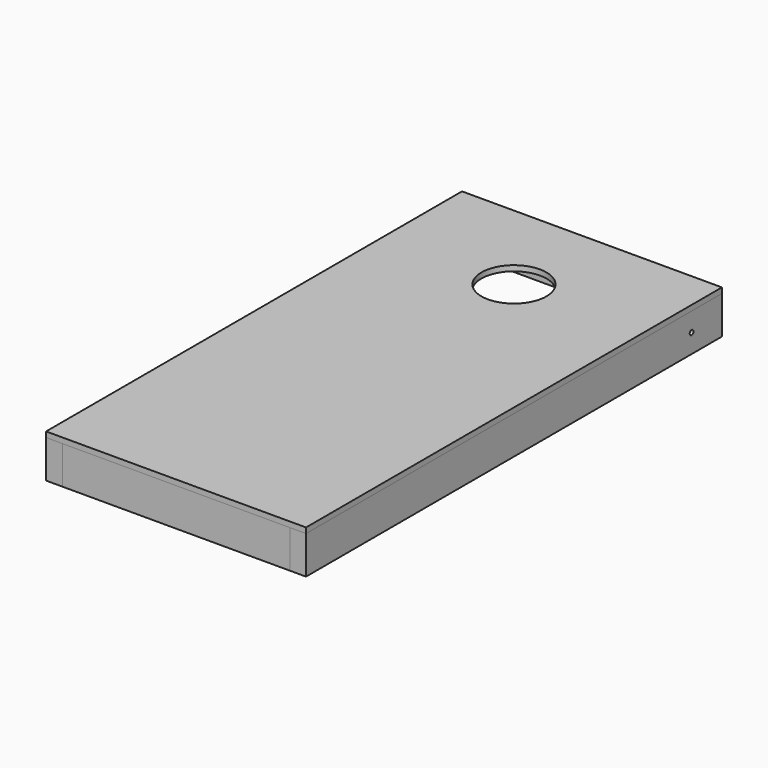
from build123d import *

# Parameters (mm, degrees)
F0_W      = 609.6
F0_H      = 1219.2
F0_R      = 76.2
F1_DEPTH  = 12.7
F3_DEPTH  = 88.9
F2_W      = 533.4
F2_H      = 38.1
F4_DEPTH  = 88.9
F6_D      = 11.1125
F8_D      = 11.1125
F10_D     = 6.35
F10_DEPTH = 50.8
F10_TIP   = 1.9077324654
F12_D     = 6.35
F12_DEPTH = 50.8
F12_TIP   = 1.9077324654


with BuildPart() as f1:
    # F0 (on Top) → F1 (new body)
    with BuildSketch(Plane.XY):
        with Locations((304.8, 609.6)):
            Rectangle(F0_W, F0_H)
        with Locations((304.8, 990.6)):
            Circle(F0_R, mode=Mode.SUBTRACT)
    extrude(amount=-F1_DEPTH)


with BuildPart() as f3:
    # F2 (on face) → F3 (new body)
    with BuildSketch(Plane(origin=(0, 0, -12.7), x_dir=(1, 0, 0), z_dir=(0, 0, -1))):
        Polygon((0, 0), (0, -1219.2), (38.1, -1219.2), (38.1, -1181.1), (38.1, -38.1), (38.1, 0), align=None)
    extrude(amount=F3_DEPTH)

    # F8 (through all)
    with Locations(Plane(origin=(0, 0, 0), x_dir=(0, -1, 0), z_dir=(-1, 0, 0))):
        with Locations((-1130.3, -57.15)):
            Hole(F8_D / 2)

    # F10
    with Locations(Plane(origin=(0, 0, -101.6), x_dir=(1, 0, 0), z_dir=(0, 0, -1))):
        with Locations((19.05, -101.6)):
            Hole(F10_D / 2, depth=F10_DEPTH)
            with Locations((0, 0, -(F10_DEPTH + F10_TIP / 2))):  # 118° drill point
                Cone(0, F10_D / 2, F10_TIP, mode=Mode.SUBTRACT)


with BuildPart() as f3b:
    # F2 (on face) → F3, piece 2 (new body)
    with BuildSketch(Plane(origin=(0, 0, -12.7), x_dir=(1, 0, 0), z_dir=(0, 0, -1))):
        Polygon((571.5, -1181.1), (571.5, -1219.2), (609.6, -1219.2), (609.6, 0), (571.5, 0), (571.5, -38.1), align=None)
    extrude(amount=F3_DEPTH)

    # F6 (through all)
    with Locations(Plane.YZ.offset(609.6)):
        with Locations((1130.3, -57.15)):
            Hole(F6_D / 2)

    # F12
    with Locations(Plane(origin=(0, 0, -101.6), x_dir=(1, 0, 0), z_dir=(0, 0, -1))):
        with Locations((590.55, -101.6)):
            Hole(F12_D / 2, depth=F12_DEPTH)
            with Locations((0, 0, -(F12_DEPTH + F12_TIP / 2))):  # 118° drill point
                Cone(0, F12_D / 2, F12_TIP, mode=Mode.SUBTRACT)


with BuildPart() as f4:
    # F2 (on face) → F4 (new body)
    with BuildSketch(Plane(origin=(0, 0, -12.7), x_dir=(1, 0, 0), z_dir=(0, 0, -1))):
        with Locations((304.8, -19.05)):
            Rectangle(F2_W, F2_H)
    extrude(amount=F4_DEPTH)


with BuildPart() as f4b:
    # F2 (on face) → F4, piece 2 (new body)
    with BuildSketch(Plane(origin=(0, 0, -12.7), x_dir=(1, 0, 0), z_dir=(0, 0, -1))):
        with Locations((304.8, -1200.15)):
            Rectangle(F2_W, F2_H)
    extrude(amount=F4_DEPTH)


solid = Compound([f1.part, f3.part, f3b.part, f4.part, f4b.part])
